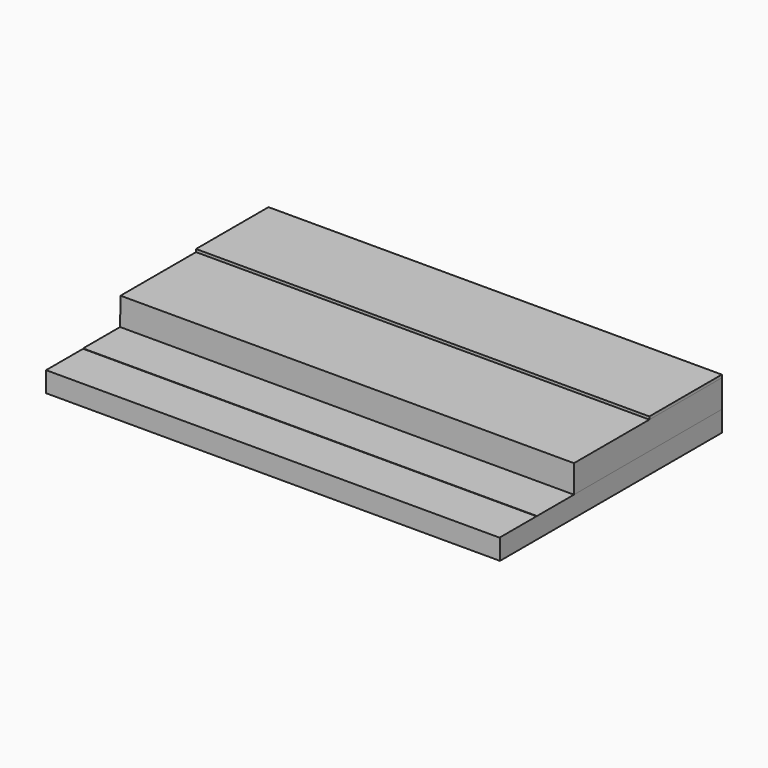
from build123d import *

# Parameters (mm, degrees)
F1_DEPTH = 125
F2_DEPTH = 100
F3_DEPTH = 49
F4_DEPTH = 150


with BuildPart() as f1:
    # F0 (on Front) → F1 (new body)
    with BuildSketch(Plane.XZ):
        Polygon((-21.76261, 16), (-43.054478, 16), (-75.163431, 16), (-75.163431, 15.800006), (170.235842, 15.800006), (170.23739, 16), (148.945522, 16), (106.23739, 16), (84.945522, 16), (42.23739, 16), (20.945522, 16), align=None)
    extrude(amount=F1_DEPTH)


with BuildPart() as f2:
    # F0 (on Front) → F2 (new body)
    with BuildSketch(Plane.XZ):
        Polygon((-75.163431, 16), (-43.054478, 16), (-21.76261, 16), (20.945522, 16), (42.23739, 16), (84.945522, 16), (106.23739, 16), (148.945522, 16), (170.23739, 16), (170.23739, 31), (-74.911438, 31), align=None)
    extrude(amount=F2_DEPTH)


with BuildPart() as f3:
    # F0 (on Front) → F3 (new body)
    with BuildSketch(Plane.XZ):
        Polygon((-74.911438, 32.499531), (-74.911438, 31), (170.23739, 31), (170.199873, 32.499531), align=None)
    extrude(amount=F3_DEPTH)


with BuildPart() as f4:
    # F0 (on Front) → F4 (new body)
    with BuildSketch(Plane.XZ):
        Polygon((170.235842, 15.800006), (-75.163431, 15.800006), (-75.163431, 4.811984), (170.23739, 4.811984), (170.23739, 16), align=None)
    extrude(amount=F4_DEPTH)


solid = Compound([f1.part, f2.part, f3.part, f4.part])
